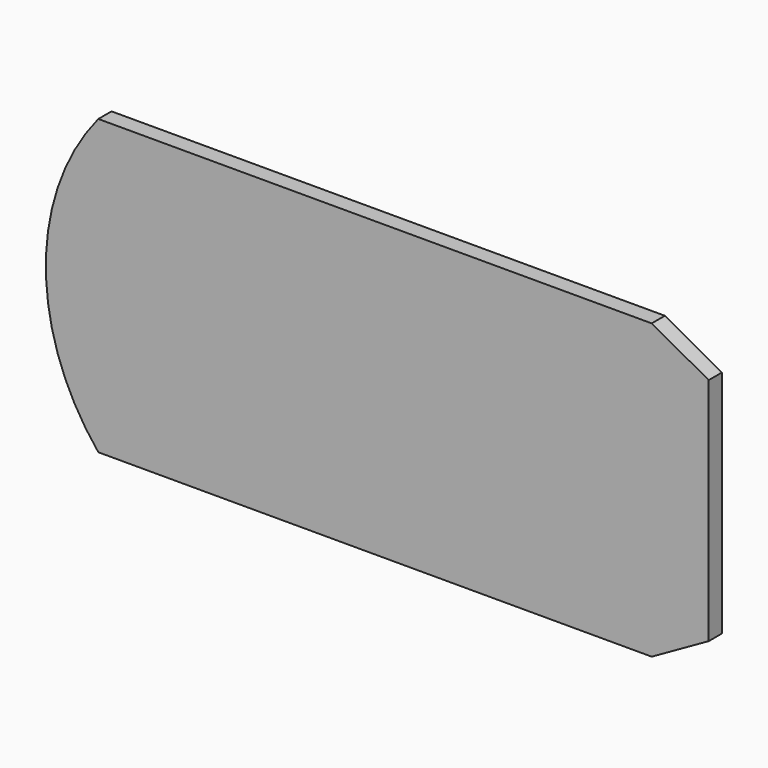
from build123d import *

# Parameters (mm, degrees)
F0_W     = 67.027942
F0_H     = 35.539538
F1_DEPTH = 2


with BuildPart() as f1:
    # F0 (on Front) → F1 (new body)
    with BuildSketch(Plane.XZ):
        Rectangle(F0_W, F0_H)
        with BuildLine():
            ThreePointArc((-33.513971, 17.769769), (-39.869315, 0), (-33.513971, -17.769769))
            Line((-33.513971, -17.769769), (-33.513971, 17.769769))
        make_face()
        Polygon((33.513971, 17.769769), (33.513971, -17.769769), (40.419325, -13.870828), (40.419325, 13.964779), align=None)
    extrude(amount=F1_DEPTH)


solid = f1.part
